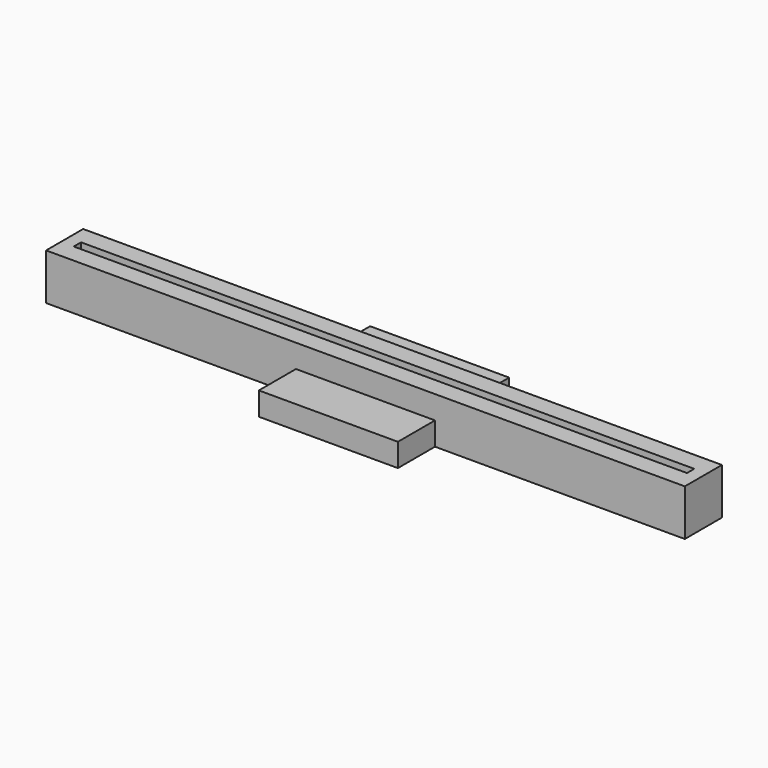
from build123d import *

# Parameters (mm, degrees)
F0_W     = 175
F0_H     = 12.7
F1_DEPTH = 12.7
F2_W     = 38.1
F2_H     = 12.7
F3_DEPTH = 6.35
F4_W     = 168
F4_H     = 2.5
F5_DEPTH = 10.16


with BuildPart() as f1:
    # F0 (on Top) → F1 (new body)
    with BuildSketch(Plane.XY):
        Rectangle(F0_W, F0_H)
    extrude(amount=F1_DEPTH)

    # F2 (on face) → F3 (join)
    with BuildSketch(Plane(origin=(0, 0, 0), x_dir=(1, 0, 0), z_dir=(0, 0, -1))):
        with Locations((0, -12.7)):
            Rectangle(F2_W, F2_H)
        with Locations((0, 12.7)):
            Rectangle(F2_W, F2_H)
        with Locations((0, 12.7)):
            Rectangle(F2_W, F2_H)
    extrude(amount=-F3_DEPTH)

    # F4 (on face) → F5 (cut)
    with BuildSketch(Plane.XY.offset(12.7)):
        Rectangle(F4_W, F4_H)
    extrude(amount=-F5_DEPTH, mode=Mode.SUBTRACT)


solid = f1.part
